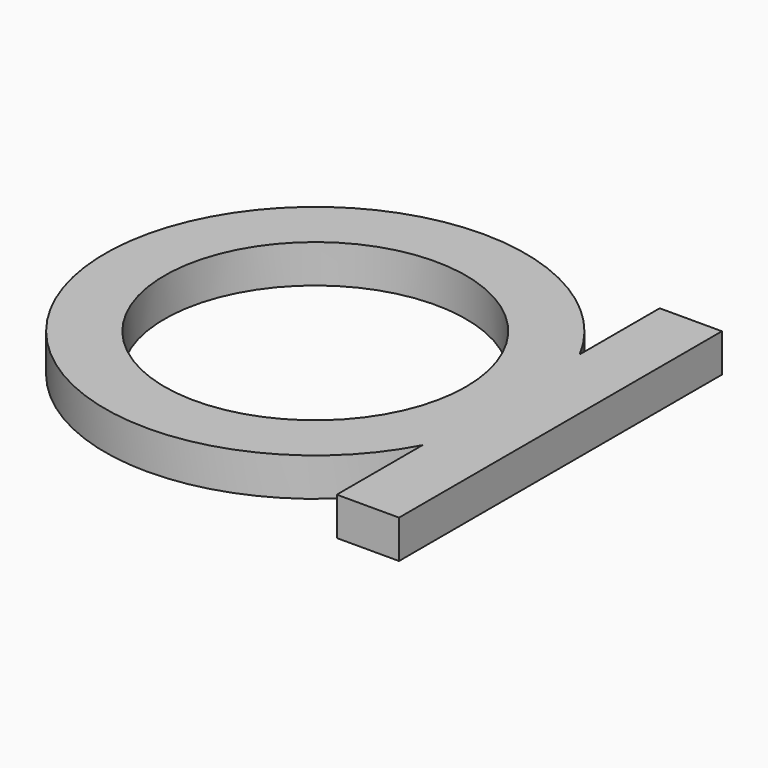
from build123d import *

# Parameters (mm, degrees)
F0_R     = 27.496488
F1_DEPTH = 5
F2_R     = 19.711681
F3_DEPTH = 5
F4_W     = 8.140551
F4_H     = 52.797299
F5_DEPTH = 5


with BuildPart() as f1:
    # F0 (on Top) → F1 (new body)
    with BuildSketch(Plane.XY):
        Circle(F0_R)
    extrude(amount=F1_DEPTH)

    # F2 (on face) → F3 (cut)
    with BuildSketch(Plane.XY.offset(5)):
        Circle(F2_R)
    extrude(amount=-F3_DEPTH, mode=Mode.SUBTRACT)

    # F4 (on Top) → F5 (join)
    with BuildSketch(Plane.XY):
        with Locations((28.375639, -0.465175)):
            Rectangle(F4_W, F4_H)
    extrude(amount=F5_DEPTH)


solid = f1.part
